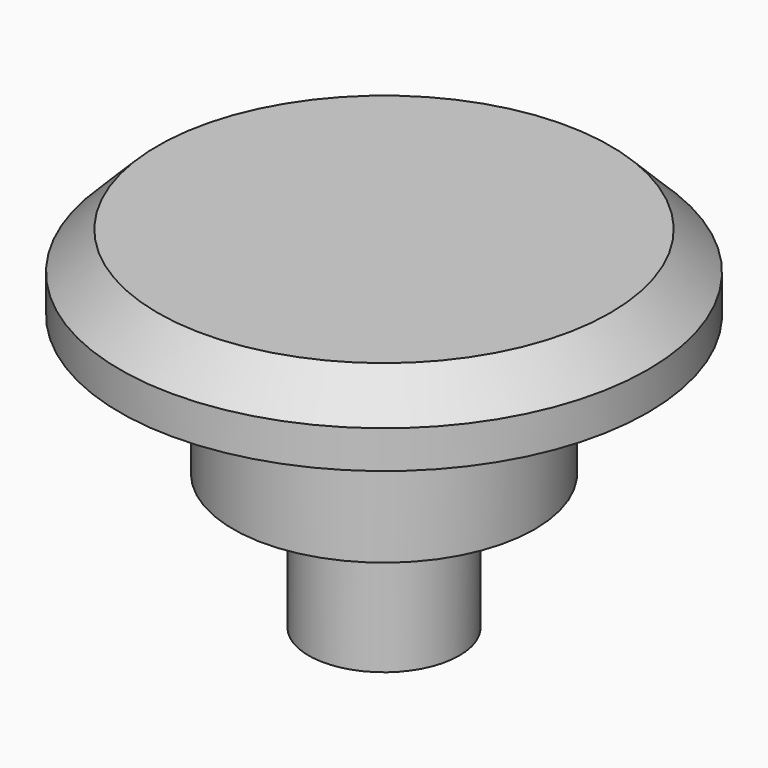
from build123d import *

# Parameters (mm, degrees)
F0_R     = 7
F0_R_2   = 4
F0_R_3   = 2
F1_DEPTH = 2
F2_SIZE  = 1
F3_DEPTH = 7.3
F4_DEPTH = 3.7


with BuildPart() as f1:
    # F0 (on Top) → F1 (new body)
    with BuildSketch(Plane.XY):
        Circle(F0_R)
        Circle(F0_R_2, mode=Mode.SUBTRACT)
        Circle(F0_R_2)
        Circle(F0_R_3, mode=Mode.SUBTRACT)
        Circle(F0_R_3)
    extrude(amount=F1_DEPTH)

    # F2
    f2_edges = [f1.edges().sort_by_distance(p)[0] for p in [
        (-7, 0, 2),
    ]]
    chamfer(f2_edges, length=F2_SIZE)

    # F0 (on Top) → F3 (join)
    with BuildSketch(Plane.XY):
        Circle(F0_R_3)
    extrude(amount=-F3_DEPTH)

    # F0 (on Top) → F4 (join)
    with BuildSketch(Plane.XY):
        Circle(F0_R_2)
        Circle(F0_R_3, mode=Mode.SUBTRACT)
    extrude(amount=-F4_DEPTH)


solid = f1.part
